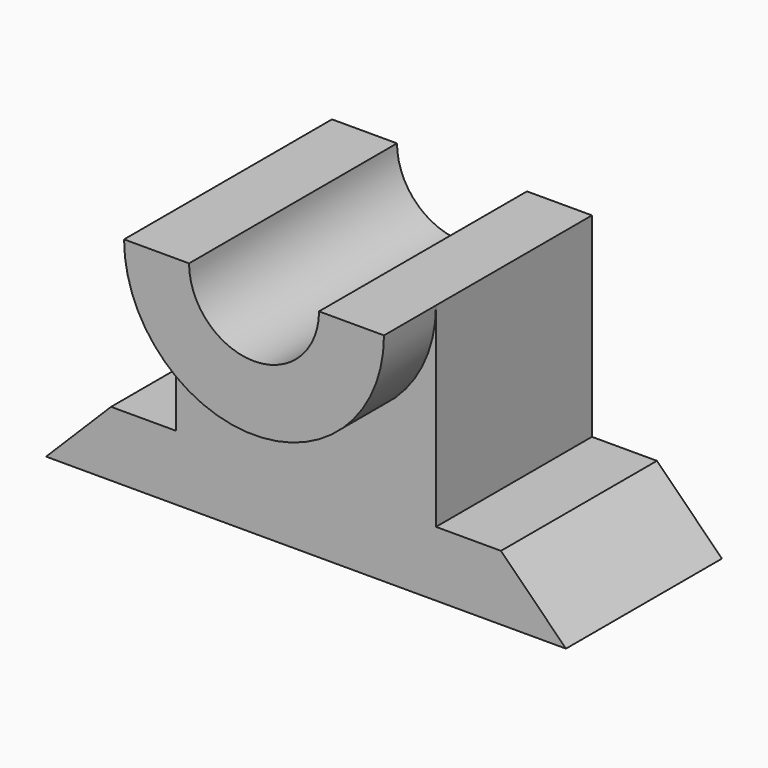
from build123d import *

# Parameters (mm, degrees)
F1_DEPTH = 30
F3_DEPTH = 10
F5_DEPTH = 43.3


with BuildPart() as f1:
    # F0 (on Front) → F1 (new body)
    with BuildSketch(Plane.XZ):
        Polygon((10, 10), (0, 0), (80, 0), (70, 10), (60, 10), (60, 40), (20, 40), (20, 10), align=None)
    extrude(amount=F1_DEPTH)

    # F2 (on face) → F3 (join)
    with BuildSketch(Plane.XZ.offset(30)):
        with BuildLine():
            Line((60, 40), (20, 40))
            ThreePointArc((20, 40), (40, 20), (60, 40))
        make_face()
    extrude(amount=F3_DEPTH)

    # F4 (on face) → F5 (cut)
    with BuildSketch(Plane.XZ.offset(40)):
        with BuildLine():
            ThreePointArc((30, 40), (40, 30), (50, 40))
            Line((50, 40), (30, 40))
        make_face()
    extrude(amount=-F5_DEPTH, mode=Mode.SUBTRACT)


solid = f1.part
